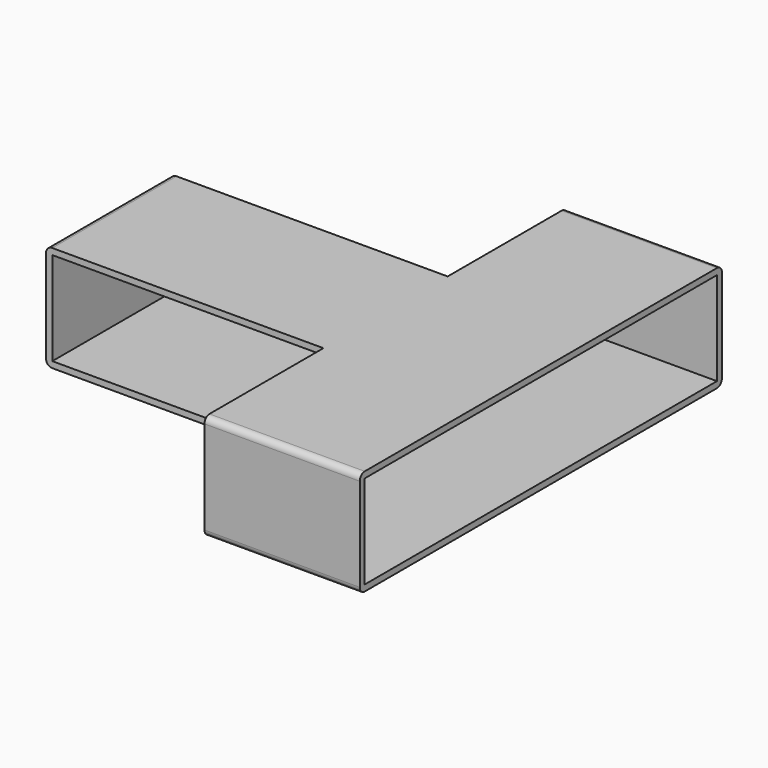
from build123d import *

# Parameters (mm, degrees)
F1_DEPTH      = 6.4897
F1_DEPTH_BACK = 6.4897
F2_W          = 85.5599
F2_H          = 54.0004
F3_DEPTH      = 5.7277
F3_DEPTH_BACK = 5.7277
F4_R          = 0.762


with BuildPart() as f1:
    # F0 (on Top) → F1 (new body, two sides)
    with BuildSketch(Plane.XY) as f1_sk:
        Polygon((9.525, -27.7622), (9.525, 27.7622), (-9.525, 27.7622), (-9.525, 9.525), (-43.54195, 9.525), (-43.54195, -9.525), (-9.525, -9.525), (-9.525, -27.7622), align=None)
    extrude(amount=F1_DEPTH)
    extrude(f1_sk.sketch, amount=-F1_DEPTH_BACK)

    # F2 (on Top) → F3 (cut, two sides)
    with BuildSketch(Plane.XY) as f3_sk:
        Rectangle(F2_W, F2_H)
    extrude(amount=-F3_DEPTH, mode=Mode.SUBTRACT)
    extrude(f3_sk.sketch, amount=F3_DEPTH_BACK, mode=Mode.SUBTRACT)

    # F4
    f4_edges = [f1.edges().sort_by_distance(p)[0] for p in [
        (0, -27.7622, 6.4897),
        (0, -27.7622, -6.4897),
        (0, 27.7622, 6.4897),
        (0, 27.7622, -6.4897),
        (-43.54195, 0, -6.4897),
        (-43.54195, 0, 6.4897),
    ]]
    fillet(f4_edges, radius=F4_R)


solid = f1.part
